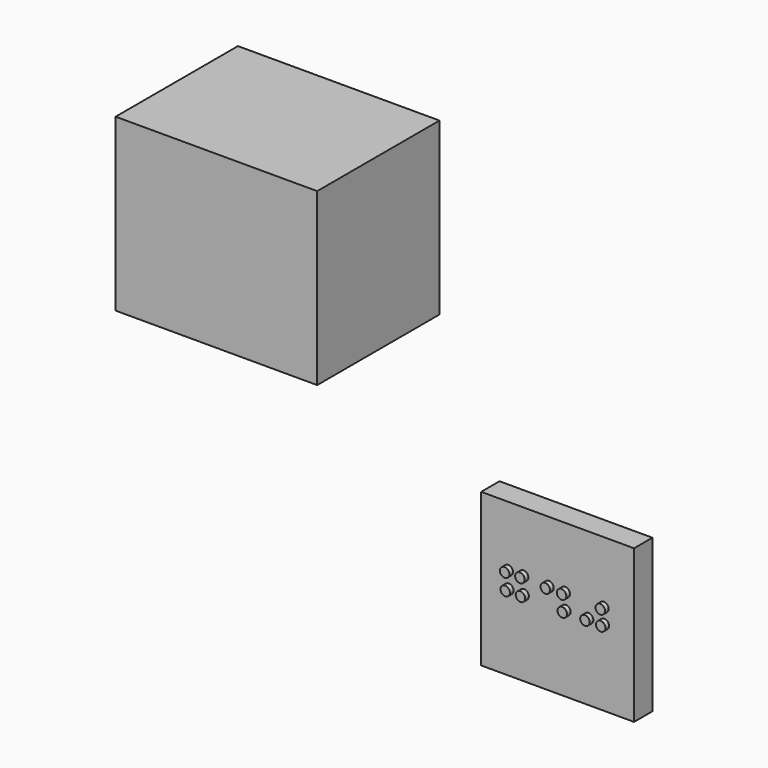
from build123d import *

# Parameters (mm, degrees)
F0_W     = 25.4
F0_H     = 25.4
F1_DEPTH = 3.81
F3_R     = 0.7874
F5_R     = 0.7874
F4_R     = 0.7874
F6_DEPTH = 0.762
F7_W     = 33.492558
F7_H     = 28.37564
F8_DEPTH = 25.4


with BuildPart() as f1:
    # F0 (on Front) → F1 (new body)
    with BuildSketch(Plane.XZ):
        Rectangle(F0_W, F0_H)
    extrude(amount=F1_DEPTH)

    # F3 (on face) + F5 (on face) + F4 (on face) → F6 (join)
    with BuildSketch(Plane.XZ.offset(3.81)):
        with Locations((-5.562056, 0)):
            Circle(F3_R)
        with Locations((-8.102056, 0)):
            Circle(F3_R)
        with Locations((-8.193153, 2.68803)):
            Circle(F3_R)
        with Locations((-5.653349, 2.719607)):
            Circle(F3_R)
    with BuildSketch(Plane.XZ.offset(3.81)):
        with Locations((7.695833, 2.465096)):
            Circle(F5_R)
        with Locations((5.148814, 0)):
            Circle(F5_R)
        with Locations((7.765962, 0)):
            Circle(F5_R)
    with BuildSketch(Plane.XZ.offset(3.81)):
        with Locations((1.375696, -0.038461)):
            Circle(F4_R)
        with Locations((-1.44127, 2.549272)):
            Circle(F4_R)
        with Locations((1.26496, 2.552998)):
            Circle(F4_R)
    extrude(amount=F6_DEPTH)


with BuildPart() as f8:
    # F7 (on Front) → F8 (new body)
    with BuildSketch(Plane.XZ):
        with Locations((-39.423533, 48.029259)):
            Rectangle(F7_W, F7_H)
    extrude(amount=F8_DEPTH)


solid = Compound([f1.part, f8.part])
